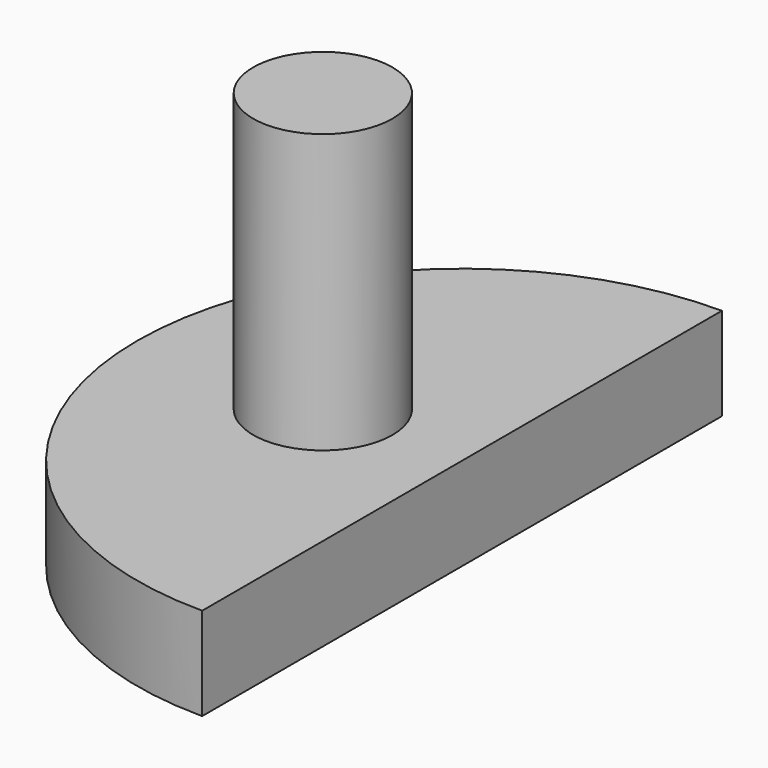
from build123d import *

# Parameters (mm, degrees)
F0_R     = 19.05
F1_DEPTH = 101.6
F2_DEPTH = 25.4
F3_DEPTH = 76.2


with BuildPart() as f1:
    # F0 (on Top) → F1 (new body)
    with BuildSketch(Plane.XY):
        with Locations((-38.1, 0)):
            Circle(F0_R)
    extrude(amount=F1_DEPTH)

    # F0 (on Top) → F2 (join)
    with BuildSketch(Plane.XY):
        with BuildLine():
            Line((0, -88.9), (0, 88.9))
            ThreePointArc((0, 88.9), (-88.9, 0), (0, -88.9))
        make_face()
        with Locations((-38.1, 0)):
            Circle(F0_R, mode=Mode.SUBTRACT)
    extrude(amount=F2_DEPTH)

    # F3 (cut): a face of the model
    f3_faces = [f1.faces().sort_by_distance(p)[0] for p in [
        (-38.1, 0, 101.6),
    ]]
    extrude(f3_faces, amount=F3_DEPTH, mode=Mode.SUBTRACT)


solid = f1.part
